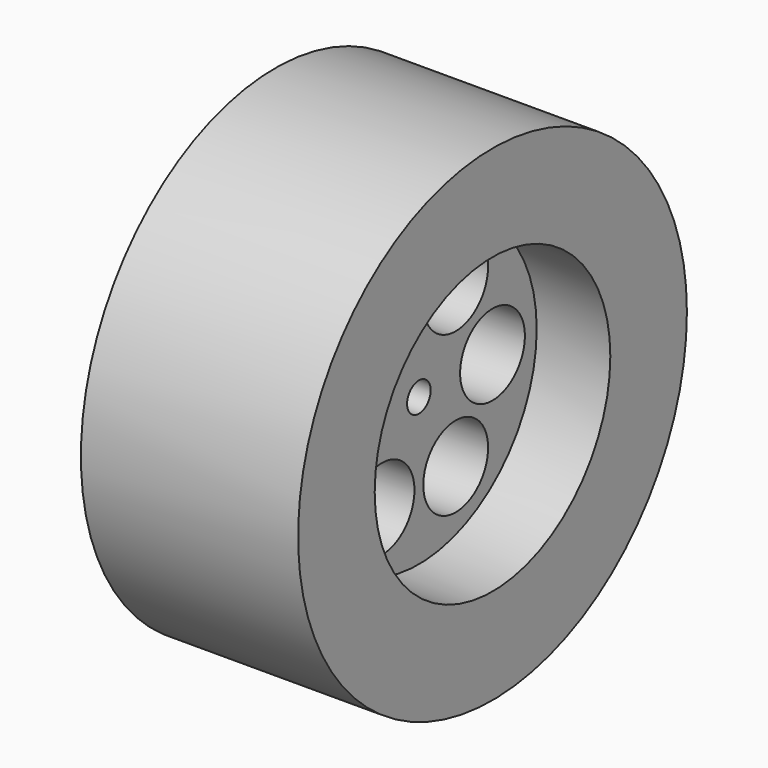
from build123d import *

# Parameters (mm, degrees)
SKETCH004_R     = 66
SKETCH004_R_2   = 4
SKETCH004_R_3   = 11
PAD003_DEPTH    = 29.5
SKETCH005_R     = 40
POCKET001_DEPTH = 20
SKETCH006_R     = 40
POCKET002_DEPTH = 10


with BuildPart() as wheel_right:
    # Sketch004 → Pad003 (new body, symmetric)
    with BuildSketch(Plane.YZ):
        Circle(SKETCH004_R)
        Circle(SKETCH004_R_2, mode=Mode.SUBTRACT)
        with Locations((12.5, -21.650635)):
            Circle(SKETCH004_R_3, mode=Mode.SUBTRACT)
        with Locations((25, 0)):
            Circle(SKETCH004_R_3, mode=Mode.SUBTRACT)
        with Locations((12.5, 21.650635)):
            Circle(SKETCH004_R_3, mode=Mode.SUBTRACT)
        with Locations((-12.5, 21.650635)):
            Circle(SKETCH004_R_3, mode=Mode.SUBTRACT)
        with Locations((-25, 0)):
            Circle(SKETCH004_R_3, mode=Mode.SUBTRACT)
        with Locations((-12.5, -21.650635)):
            Circle(SKETCH004_R_3, mode=Mode.SUBTRACT)
    extrude(amount=PAD003_DEPTH, both=True)

    # Sketch005 (on Face3 of Pad003) → Pocket001 (cut)
    with BuildSketch(Plane(origin=(-29.5, 0, 0), x_dir=(0, 1, 0), z_dir=(-1, 0, 0))):
        Circle(SKETCH005_R)
    extrude(amount=-POCKET001_DEPTH, mode=Mode.SUBTRACT)

    # Sketch006 (on Face3 of Pocket001) → Pocket002 (cut)
    with BuildSketch(Plane.YZ.offset(29.5)):
        Circle(SKETCH006_R)
    extrude(amount=-POCKET002_DEPTH, mode=Mode.SUBTRACT)


with BuildPart() as wheel_right_1:
    # Body003 placement: moved
    add(wheel_right.part.moved(Location((135, 10, 10))))


with BuildPart() as part_mirroring001:
    # Part__Mirroring001: instance of wheel right
    add(wheel_right_1.part.mirror(Plane(origin=(0, 0, 0), x_dir=(0, -1, 0), z_dir=(1, 0, 0))))


solid = part_mirroring001.part
